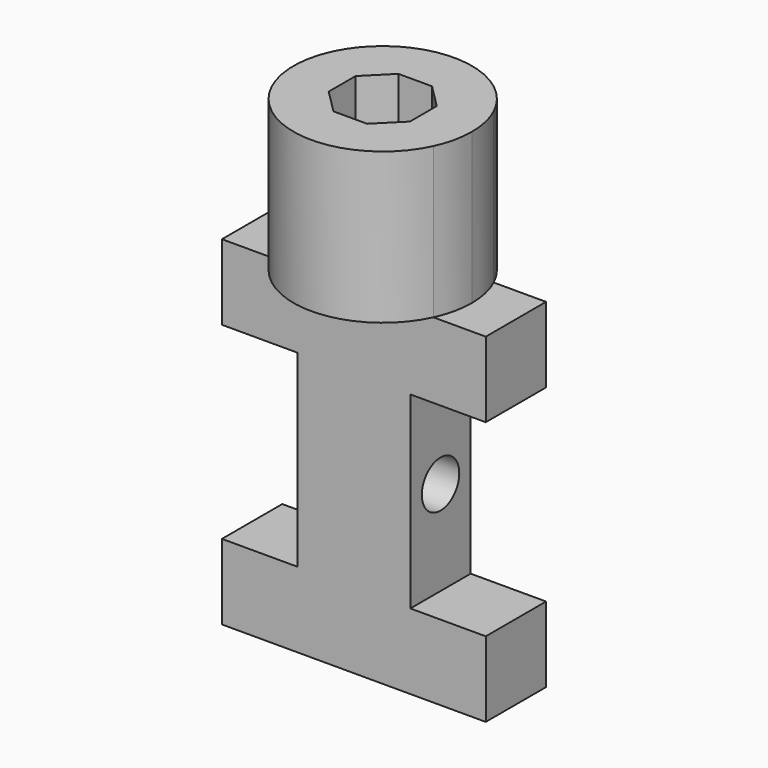
from build123d import *

# Parameters (mm, degrees)
F1_DEPTH = 25.4
F2_R     = 7.890546565
F3_DEPTH = 63.501
F5_DEPTH = 50.8
F7_DEPTH = 50.8


with BuildPart() as f1:
    # F0 (on Front) → F1 (new body)
    with BuildSketch(Plane.XZ):
        Polygon((-44.0221392334, -23.4564554393), (-44.0221392334, -48.8564554393), (44.8778607666, -48.8564554393), (44.8778607666, -23.4564554393), (19.4778607666, -23.4564554393), (19.4778607666, 40.0435445607), (44.8778607666, 40.0435445607), (44.8778607666, 65.4435445607), (-44.0221392334, 65.4435445607), (-44.0221392334, 40.0435445607), (-18.6221392334, 40.0435445607), (-18.6221392334, -23.4564554393), align=None)
    extrude(amount=F1_DEPTH)

    # F2 (on face) → F3 (cut, through all)
    with BuildSketch(Plane.YZ.offset(19.4778607666)):
        with Locations((-12.7, 8.2935445607)):
            Circle(F2_R)
    extrude(amount=-F3_DEPTH, mode=Mode.SUBTRACT)

    # F4 (on face) → F5 (join)
    with BuildSketch(Plane.XY.offset(65.4435445607)):
        with BuildLine():
            Line((-27.2401830653, 0), (27.2401830653, 0))
            ThreePointArc((27.2401830653, 0), (0, 17.3552420291), (-27.2401830653, 0))
        make_face()
        with BuildLine():
            ThreePointArc((-27.2401830653, -25.4), (0, -42.7552420291), (27.2401830653, -25.4))
            Line((27.2401830653, -25.4), (-27.2401830653, -25.4))
        make_face()
        with BuildLine():
            ThreePointArc((27.2401830653, -25.4), (29.3430389392, -19.2041247868), (30.0552420291, -12.7))
            ThreePointArc((30.0552420291, -12.7), (29.3430389392, -6.1958752132), (27.2401830653, 0))
            Line((27.2401830653, 0), (-27.2401830653, 0))
            ThreePointArc((-27.2401830653, 0), (-30.0552420291, -12.7), (-27.2401830653, -25.4))
            Line((-27.2401830653, -25.4), (27.2401830653, -25.4))
        make_face()
    extrude(amount=F5_DEPTH)

    # F6 (on face) → F7 (cut)
    with BuildSketch(Plane.XY.offset(116.2435445607)):
        Polygon((13.6795025319, -18.3662354752), (13.6795025319, -7.0337645248), (5.6662354752, 0.9795025319), (-5.6662354752, 0.9795025319), (-13.6795025319, -7.0337645248), (-13.6795025319, -18.3662354752), (-5.6662354752, -26.3795025319), (5.6662354752, -26.3795025319), align=None)
    extrude(amount=-F7_DEPTH, mode=Mode.SUBTRACT)


solid = f1.part
